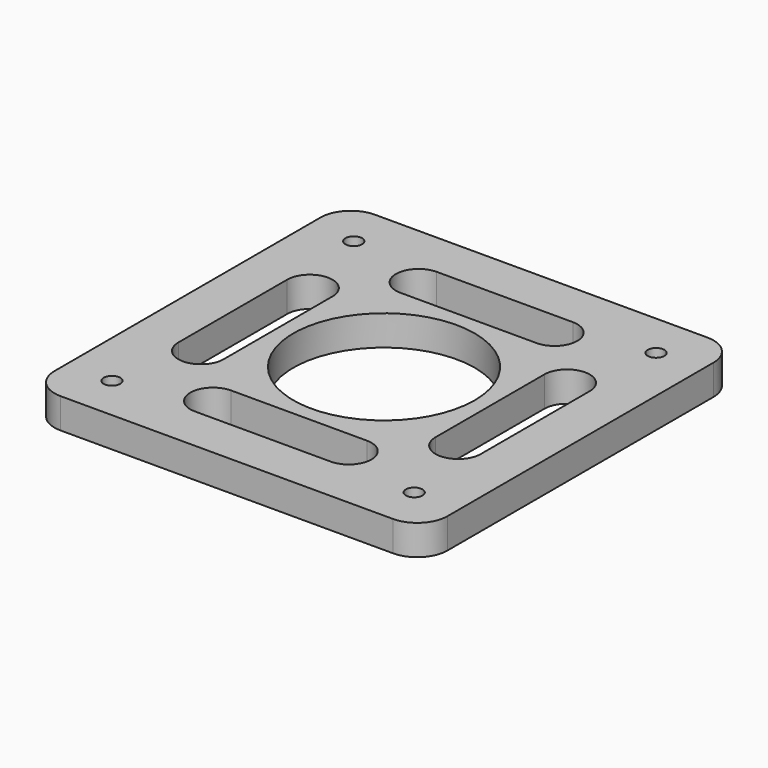
from build123d import *

# Parameters (mm, degrees)
F0_R     = 2.75
F0_R_2   = 30
F1_DEPTH = 10


with BuildPart() as f1:
    # F0 (on Top) → F1 (new body)
    with BuildSketch(Plane.XY):
        with BuildLine():
            Line((-55, -65), (55, -65))
            ThreePointArc((55, -65), (62.071068, -62.071068), (65, -55))
            Line((65, -55), (65, 55))
            ThreePointArc((65, 55), (62.071068, 62.071068), (55, 65))
            Line((55, 65), (-55, 65))
            ThreePointArc((-55, 65), (-62.071068, 62.071068), (-65, 55))
            Line((-65, 55), (-65, -55))
            ThreePointArc((-65, -55), (-62.071068, -62.071068), (-55, -65))
        make_face()
        with Locations((-50, -50)):
            Circle(F0_R, mode=Mode.SUBTRACT)
        with BuildLine():
            Line((-22.662647, -35), (22.337353, -35))
            ThreePointArc((22.337353, -35), (29.837554, -42.445497), (22.44716, -50))
            Line((22.44716, -50), (-22.55284, -50))
            ThreePointArc((-22.55284, -50), (-30.053041, -42.554503), (-22.662647, -35))
        make_face(mode=Mode.SUBTRACT)
        with BuildLine():
            Line((-35, 22.554903), (-35, -22.445097))
            ThreePointArc((-35, -22.445097), (-42.444693, -30.055104), (-50, -22.554903))
            Line((-50, -22.554903), (-50, 22.445097))
            ThreePointArc((-50, 22.445097), (-42.554503, 29.945298), (-35, 22.554903))
        make_face(mode=Mode.SUBTRACT)
        with Locations((50, -50)):
            Circle(F0_R, mode=Mode.SUBTRACT)
        with Locations((-50, 50)):
            Circle(F0_R, mode=Mode.SUBTRACT)
        with BuildLine():
            ThreePointArc((22.44716, 50), (29.947361, 42.444693), (22.337353, 35))
            Line((22.337353, 35), (-22.662647, 35))
            ThreePointArc((-22.662647, 35), (-30.053041, 42.554503), (-22.55284, 50))
            Line((-22.55284, 50), (22.44716, 50))
        make_face(mode=Mode.SUBTRACT)
        Circle(F0_R_2, mode=Mode.SUBTRACT)
        with BuildLine():
            Line((50, 22.445097), (50, -22.554903))
            ThreePointArc((50, -22.554903), (42.445497, -29.945298), (35, -22.445097))
            Line((35, -22.445097), (35, 22.554903))
            ThreePointArc((35, 22.554903), (42.555307, 30.055104), (50, 22.445097))
        make_face(mode=Mode.SUBTRACT)
        with Locations((50, 50)):
            Circle(F0_R, mode=Mode.SUBTRACT)
    extrude(amount=F1_DEPTH)


solid = f1.part
